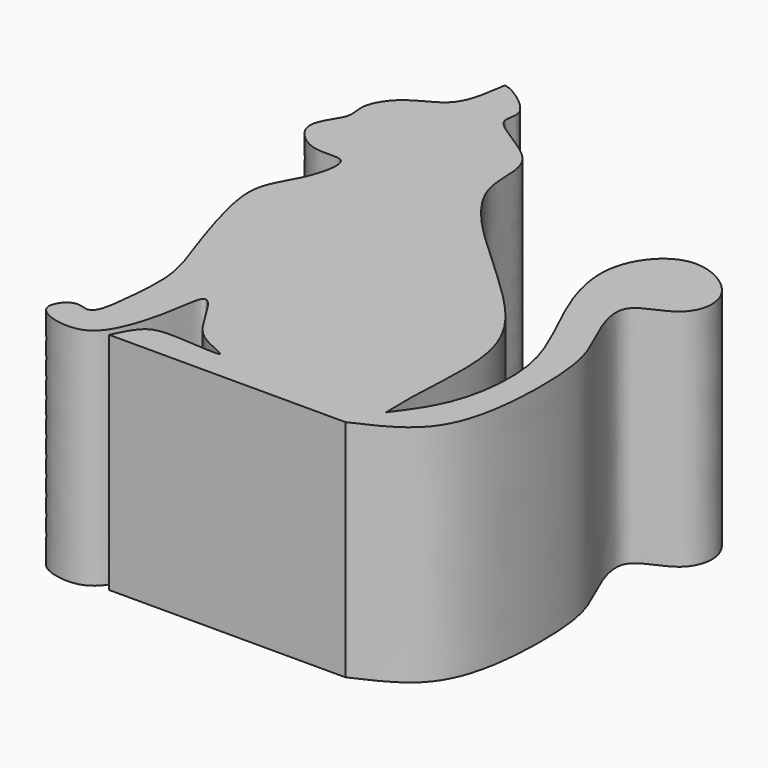
from build123d import *

# Parameters (mm, degrees)
F1_DEPTH = 30


with BuildPart() as f1:
    # F0 (on Top) → F1 (new body)
    with BuildSketch(Plane.XY):
        with BuildLine():
            add(Edge.make_bspline(
                [(21.7478666455, -40.3862372041), (21.7009305862, -38.5864075636), (21.5916436416, -34.3956449561), (22.595840214, -23.5817295595), (18.4383155676, -14.9836489514), (6.8237216377, -5.0360369873), (-3.1462133502, 5.1271532813), (-0.4630939945, 13.8377006921), (-11.355494281, 17.930739432), (-8.2200497922, 21.4413146651), (-13.9128452546, 25.1427405196), (-14.7172957659, 24.9663628638)],
                knots=[0, 0, 0, 0, 0.0897753536, 0.2090348922, 0.3209118971, 0.4668163954, 0.6019244659, 0.7014344081, 0.8101065066, 0.871751936, 0.9630499866, 0.9630499866, 0.9630499866, 0.9630499866], degree=3))
            add(Edge.make_bspline(
                [(-14.7172957659, 24.9663628638), (-14.7590505814, 24.6390112286), (-14.800805397, 24.3116595935), (-14.846536604, 23.9809785583)],
                knots=[0, 0, 0, 0, 0.024582198, 0.024582198, 0.024582198, 0.024582198], degree=3))
            add(Edge.make_bspline(
                [(-14.846536604, 23.9809785583), (-14.9399134709, 23.3057731334), (-15.230747562, 21.483124423), (-16.3328772103, 17.8563216725), (-21.3204266123, 16.2921902269), (-23.784380167, 12.0801306421), (-22.4648391005, 9.2190865571), (-26.5448483854, 5.1889684995), (-21.5405321162, 0.5420852804), (-16.2226993674, 2.3688027339), (-17.8160764544, -4.685319483), (-21.4872445024, -9.0862896622), (-19.9017204984, -14.7088413338), (-19.030675292, -17.7977234125)],
                knots=[0.024582198, 0.024582198, 0.024582198, 0.024582198, 0.0747756826, 0.1573450751, 0.2519158168, 0.3398162943, 0.4095202187, 0.4984959662, 0.5952934425, 0.6783778274, 0.7738860198, 0.8757789235, 1, 1, 1, 1], degree=3))
            add(Edge.make_bspline(
                [(-19.030675292, -17.7977234125), (-18.479588991, -19.5849953913), (-17.3363201272, -23.2928219164), (-14.8473286347, -29.5772825887), (-15.1779484471, -33.764113313), (-15.3403142467, -35.8202457428)],
                knots=[0, 0, 0, 0, 0.3213842005, 0.666735045, 1, 1, 1, 1], degree=3))
            add(Edge.make_bspline(
                [(-15.3403142467, -35.8202457428), (-15.5848176523, -38.5137867378), (-15.9801456641, -42.8688680235), (-19.1740122444, -40.497920838), (-22.2528744848, -44.868552968), (-14.6213788956, -46.8161445428), (-11.4637484018, -42.6922442226), (-9.9145875096, -36.4963394947), (-9.3462315565, -30.2513312495), (-5.8698507976, -36.3767677474), (-3.8989470133, -39.3628207319), (2.4819384984, -41.4787937485), (-6.3035239619, -40.5420933693), (-9.8740167598, -40.8247890025), (-11.1009728095, -43.4361188448), (-11.7152137682, -44.7434075177)],
                knots=[0, 0, 0, 0, 0.0893440829, 0.1444569599, 0.2083829042, 0.2945577288, 0.3735910935, 0.471076901, 0.5421665458, 0.6204353633, 0.6999049521, 0.7672485165, 0.8553257301, 0.9275729051, 1, 1, 1, 1], degree=3))
            Line((-11.7152137682, -44.7434075177), (19.8307074606, -44.7434075177))
            add(Edge.make_bspline(
                [(19.8307074606, -44.7434075177), (22.4998953249, -43.5418288926), (27.9365886604, -41.0944123617), (30.9091519979, -32.2007815138), (30.7696130228, -19.3561155329), (28.6726780034, -14.4652502803), (24.4272523427, -5.4363551376), (32.5004576124, -4.4243120798), (34.0847734973, 2.7115079701), (24.8931802473, 8.2677217725), (17.745065108, -0.1446969555), (22.2854639249, -12.1988469447), (27.7142247246, -21.8708907787), (26.5861180485, -33.8867959831), (23.2642143059, -38.3492590339), (21.7478666455, -40.3862372041)],
                knots=[0, 0, 0, 0, 0.0759268602, 0.1546504315, 0.2469733866, 0.3115948662, 0.3835881543, 0.4468024914, 0.508370389, 0.5834943689, 0.6585241157, 0.749777244, 0.8384870942, 0.9262742885, 1, 1, 1, 1], degree=3))
        make_face()
    extrude(amount=F1_DEPTH)


solid = f1.part
